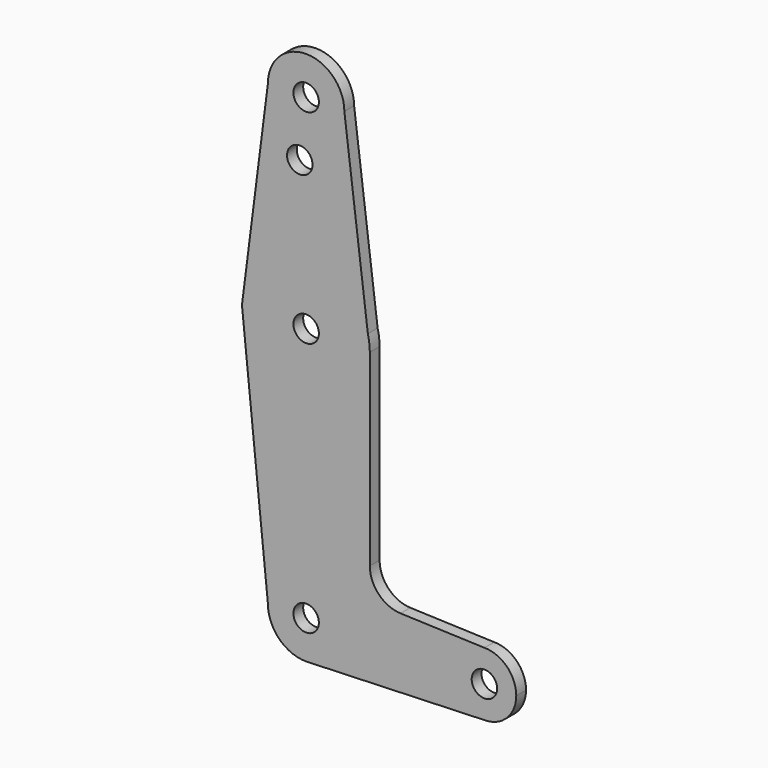
from build123d import *

# Parameters (mm, degrees)
F0_R     = 3.175
F1_DEPTH = 3.048


with BuildPart() as f1:
    # F0 (on Front) → F1 (new body)
    with BuildSketch(Plane.XZ):
        with BuildLine():
            ThreePointArc((0.6794904459, -9.5007324841), (6.9712901065, -6.4905114784), (9.525, 0))
            ThreePointArc((9.525, 0), (0, 9.525), (-9.525, 0))
            ThreePointArc((-9.525, 0), (-6.7351920908, -6.7351920908), (0, -9.525))
            Line((0, -9.525), (0.6794904459, -9.5007324841))
        make_face()
        Circle(F0_R, mode=Mode.SUBTRACT)
        with BuildLine():
            ThreePointArc((-9.525, 0), (0, 9.525), (9.525, 0))
            ThreePointArc((9.525, 0), (6.9712901065, -6.4905114784), (0.6794904459, -9.5007324841))
            Line((0.6794904459, -9.5007324841), (44.45, -7.9375))
            ThreePointArc((44.45, -7.9375), (36.5125, 0), (44.45, 7.9375))
            Line((44.45, 7.9375), (23.5403527632, 8.6871518144))
            ThreePointArc((23.5403527632, 8.6871518144), (18.1037372263, 11.1122342659), (15.875, 16.6322472884))
            Line((15.875, 16.6322472884), (15.875, 63.5))
            ThreePointArc((15.875, 63.5), (-1.0061676981, 47.6569178642), (-15.7474568899, 65.5082894468))
            Line((-15.7474568899, 65.5082894468), (-16.0035761028, 63.5))
            Line((-16.0035761028, 63.5), (-9.525, 0))
        make_face()
        with BuildLine():
            ThreePointArc((0, -9.525), (0.3399618281, -9.5189311877), (0.6794904459, -9.5007324841))
            Line((0.6794904459, -9.5007324841), (0, -9.525))
        make_face()
        with BuildLine():
            ThreePointArc((44.45, 7.9375), (36.5125, 0), (44.45, -7.9375))
            ThreePointArc((44.45, -7.9375), (50.0626600757, -5.6126600757), (52.3875, 0))
            ThreePointArc((52.3875, 0), (50.0626600757, 5.6126600757), (44.45, 7.9375))
        make_face()
        with Locations((44.45, 0)):
            Circle(F0_R, mode=Mode.SUBTRACT)
        with BuildLine():
            Line((-9.525, 114.3), (-15.7474568899, 65.5082894468))
            ThreePointArc((-15.7474568899, 65.5082894468), (-0.9666945407, 79.3455396457), (15.3865384615, 67.4076923077))
            Line((15.3865384615, 67.4076923077), (9.525, 114.3))
            ThreePointArc((9.525, 114.3), (0, 104.775), (-9.525, 114.3))
        make_face()
        with Locations((-1.5875, 100.0252)):
            Circle(F0_R, mode=Mode.SUBTRACT)
        with BuildLine():
            ThreePointArc((15.3865384615, 67.4076923077), (-0.9666945407, 79.3455396457), (-15.7474568899, 65.5082894468))
            ThreePointArc((-15.7474568899, 65.5082894468), (-1.0061676981, 47.6569178642), (15.875, 63.5))
            Line((15.875, 63.5), (15.3865384615, 67.4076923077))
        make_face()
        with Locations((0, 63.5)):
            Circle(F0_R, mode=Mode.SUBTRACT)
        with BuildLine():
            ThreePointArc((15.875, 63.5), (15.7524112928, 65.4690514116), (15.3865384615, 67.4076923077))
            Line((15.3865384615, 67.4076923077), (15.875, 63.5))
        make_face()
        with BuildLine():
            ThreePointArc((9.525, 114.3), (0, 123.825), (-9.525, 114.3))
            ThreePointArc((-9.525, 114.3), (0, 104.775), (9.525, 114.3))
        make_face()
        with Locations((0, 114.3)):
            Circle(F0_R, mode=Mode.SUBTRACT)
    extrude(amount=F1_DEPTH)


solid = f1.part
